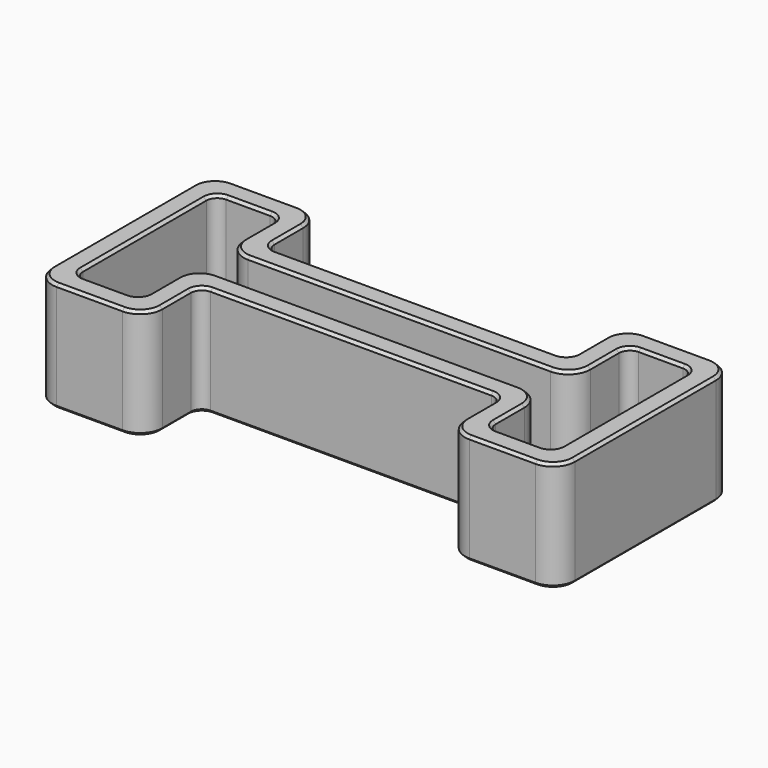
from build123d import *

# Parameters (mm, degrees)
PAD_DEPTH    = 20
THICKNESS_T  = -4
FILLET_R     = 4
FILLET001_R  = 2
CHAMFER_SIZE = 0.5


with BuildPart() as part:
    # Sketch → Pad (new body)
    with BuildSketch(Plane.XY):
        Polygon((-47.5, 20), (-27.5, 20), (-27.5, 7.5), (27.5, 7.5), (27.5, 20), (47.5, 20), (47.5, -20), (27.5, -20), (27.5, -7.5), (-27.5, -7.5), (-27.5, -20), (-47.5, -20), align=None)
    extrude(amount=PAD_DEPTH)

    # Thickness
    thickness_openings = [part.faces().sort_by_distance(p)[0] for p in [
        (0, 0, 0),
        (0, 0, 20),
    ]]
    offset(amount=THICKNESS_T, openings=thickness_openings)

    # Fillet
    fillet_edges = [part.edges().sort_by_distance(p)[0] for p in [
        (-47.5, -20, 10),
        (-27.5, -20, 10),
        (27.5, -20, 10),
        (47.5, -20, 10),
        (47.5, 20, 10),
        (27.5, 20, 10),
        (-27.5, 20, 10),
        (-47.5, 20, 10),
    ]]
    fillet(fillet_edges, radius=FILLET_R)

    # Fillet001
    fillet001_edges = [part.edges().sort_by_distance(p)[0] for p in [
        (-27.5, -7.5, 10),
        (-27.5, 7.5, 10),
        (27.5, 7.5, 10),
        (27.5, -7.5, 10),
        (-43.5, 16, 10),
        (-31.5, 16, 10),
        (-31.5, -16, 10),
        (-43.5, -16, 10),
        (31.5, 16, 10),
        (43.5, 16, 10),
        (31.5, -16, 10),
        (43.5, -16, 10),
    ]]
    fillet(fillet001_edges, radius=FILLET001_R)

    # Chamfer
    chamfer_edges = [part.edges().sort_by_distance(p)[0] for p in [
        (-27.5, 12.75, 20),
        (-26.914214, 8.085786, 20),
        (-28.671573, 18.828427, 20),
        (0, 7.5, 20),
        (-37.5, 20, 20),
        (26.914214, 8.085786, 20),
        (-46.328427, 18.828427, 20),
        (27.5, 12.75, 20),
        (-47.5, 0, 20),
        (28.671573, 18.828427, 20),
        (-46.328427, -18.828427, 20),
        (37.5, 20, 20),
        (-37.5, -20, 20),
        (46.328427, 18.828427, 20),
        (-28.671573, -18.828427, 20),
        (47.5, 0, 20),
        (-27.5, -12.75, 20),
        (46.328427, -18.828427, 20),
        (-26.914214, -8.085786, 20),
        (37.5, -20, 20),
        (0, -7.5, 20),
        (28.671573, -18.828427, 20),
        (26.914214, -8.085786, 20),
        (27.5, -12.75, 20),
        (-37.5, -16, 20),
        (-32.085786, -15.414214, 20),
        (-42.914214, -15.414214, 20),
        (-31.5, -10.75, 20),
        (-43.5, 0, 20),
        (-30.328427, -4.671573, 20),
        (-42.914214, 15.414214, 20),
        (0, -3.5, 20),
        (-37.5, 16, 20),
        (30.328427, -4.671573, 20),
        (-32.085786, 15.414214, 20),
        (31.5, -10.75, 20),
        (-31.5, 10.75, 20),
        (32.085786, -15.414214, 20),
        (-30.328427, 4.671573, 20),
        (37.5, -16, 20),
        (0, 3.5, 20),
        (42.914214, -15.414214, 20),
        (30.328427, 4.671573, 20),
        (43.5, 0, 20),
        (31.5, 10.75, 20),
        (42.914214, 15.414214, 20),
        (32.085786, 15.414214, 20),
        (37.5, 16, 20),
        (-27.5, 12.75, 0),
        (-26.914214, 8.085786, 0),
        (-28.671573, 18.828427, 0),
        (0, 7.5, 0),
        (-37.5, 20, 0),
        (26.914214, 8.085786, 0),
        (-46.328427, 18.828427, 0),
        (27.5, 12.75, 0),
        (-47.5, 0, 0),
        (28.671573, 18.828427, 0),
        (-46.328427, -18.828427, 0),
        (37.5, 20, 0),
        (-37.5, -20, 0),
        (46.328427, 18.828427, 0),
        (-28.671573, -18.828427, 0),
        (47.5, 0, 0),
        (-27.5, -12.75, 0),
        (46.328427, -18.828427, 0),
        (-26.914214, -8.085786, 0),
        (37.5, -20, 0),
        (0, -7.5, 0),
        (28.671573, -18.828427, 0),
        (26.914214, -8.085786, 0),
        (27.5, -12.75, 0),
        (-37.5, -16, 0),
        (-32.085786, -15.414214, 0),
        (-42.914214, -15.414214, 0),
        (-31.5, -10.75, 0),
        (-43.5, 0, 0),
        (-30.328427, -4.671573, 0),
        (-42.914214, 15.414214, 0),
        (0, -3.5, 0),
        (-37.5, 16, 0),
        (30.328427, -4.671573, 0),
        (-32.085786, 15.414214, 0),
        (31.5, -10.75, 0),
        (-31.5, 10.75, 0),
        (32.085786, -15.414214, 0),
        (-30.328427, 4.671573, 0),
        (37.5, -16, 0),
        (0, 3.5, 0),
        (42.914214, -15.414214, 0),
        (30.328427, 4.671573, 0),
        (43.5, 0, 0),
        (31.5, 10.75, 0),
        (42.914214, 15.414214, 0),
        (32.085786, 15.414214, 0),
        (37.5, 16, 0),
    ]]
    chamfer(chamfer_edges, length=CHAMFER_SIZE)


solid = part.part
